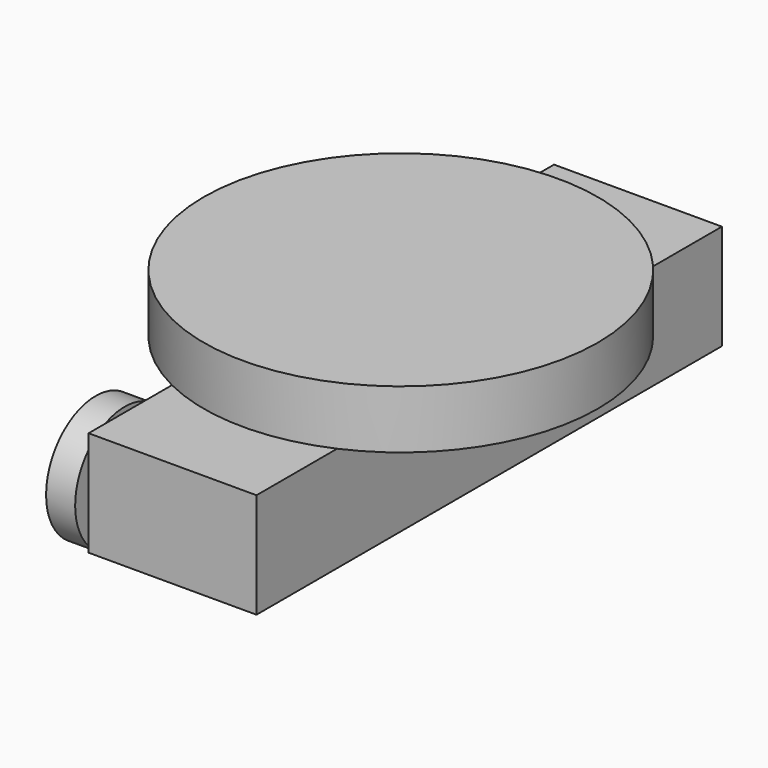
from build123d import *

# Parameters (mm, degrees)
F0_W     = 73.3068473637
F0_H     = 45.9237424657
F1_DEPTH = 254
F2_R     = 86.0682803243
F3_DEPTH = 25.4
F4_R     = 27.0619318238
F4_R_2   = 24.0411397983
F5_DEPTH = 12.7


with BuildPart() as f1:
    # F0 (on Front) → F1 (new body)
    with BuildSketch(Plane.XZ):
        with Locations((-1.5688221902, 14.5472721197)):
            Rectangle(F0_W, F0_H)
    extrude(amount=F1_DEPTH)

    # F2 (on face) → F3 (join)
    with BuildSketch(Plane.XY.offset(37.5091433525)):
        with Locations((0, -131.3995718956)):
            Circle(F2_R)
    extrude(amount=F3_DEPTH)

    # F4 (on face) → F5 (join)
    with BuildSketch(Plane(origin=(-38.222245872, 0, 0), x_dir=(0, -1, 0), z_dir=(-1, 0, 0))):
        with Locations((234.2655062675, 12.6427337527)):
            Circle(F4_R)
        with Locations((35.7813984156, 12.6427337527)):
            Circle(F4_R_2)
    extrude(amount=F5_DEPTH)


solid = f1.part
